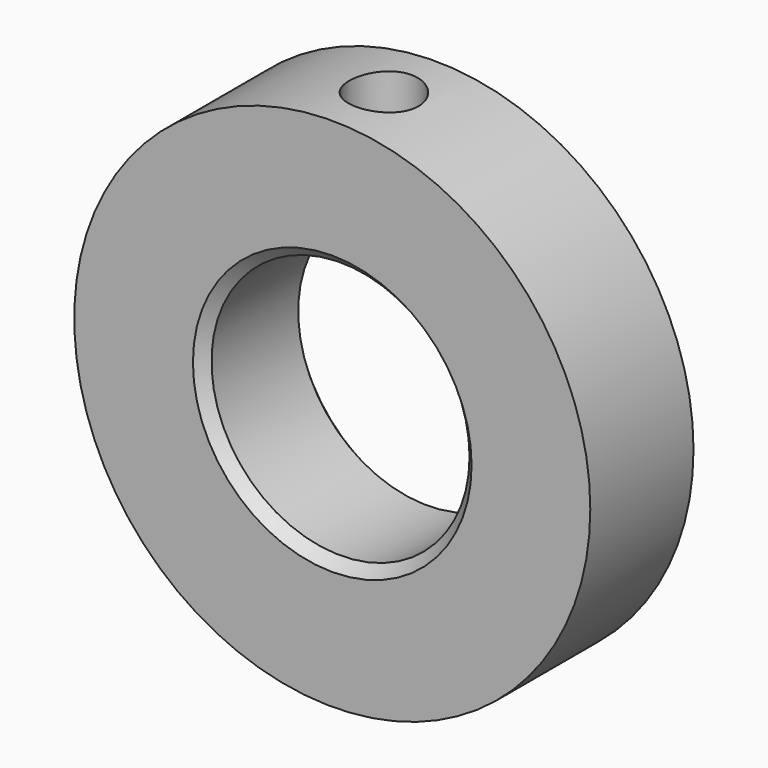
from build123d import *

# Parameters (mm, degrees)
F0_R     = 19.05
F0_R_2   = 9.525
F1_DEPTH = 4.7625
F4_D     = 5.1054
F4_DEPTH = 25.4
F4_START = 0.1718057
F4_TIP   = 1.5338169022
F5_SIZE  = 0.762


with BuildPart() as f1:
    # F0 (on Front) → F1 (new body, symmetric)
    with BuildSketch(Plane.XZ):
        Circle(F0_R)
        Circle(F0_R_2, mode=Mode.SUBTRACT)
    extrude(amount=F1_DEPTH, both=True)

    # F4
    # its depths count from where the whole tool has entered the part; down to there all is cleared
    with Locations(Plane.XY.offset(19.05).offset(-F4_START)):
        with Locations((0, 0)):
            Hole(F4_D / 2, depth=F4_DEPTH)
            with Locations((0, 0, -(F4_DEPTH + F4_TIP / 2))):  # 118° drill point
                Cone(0, F4_D / 2, F4_TIP, mode=Mode.SUBTRACT)

    # F5
    f5_edges = [f1.edges().sort_by_distance(p)[0] for p in [
        (-9.525, -4.7625, 0),
        (-9.525, 4.7625, 0),
    ]]
    chamfer(f5_edges, length=F5_SIZE)


solid = f1.part
